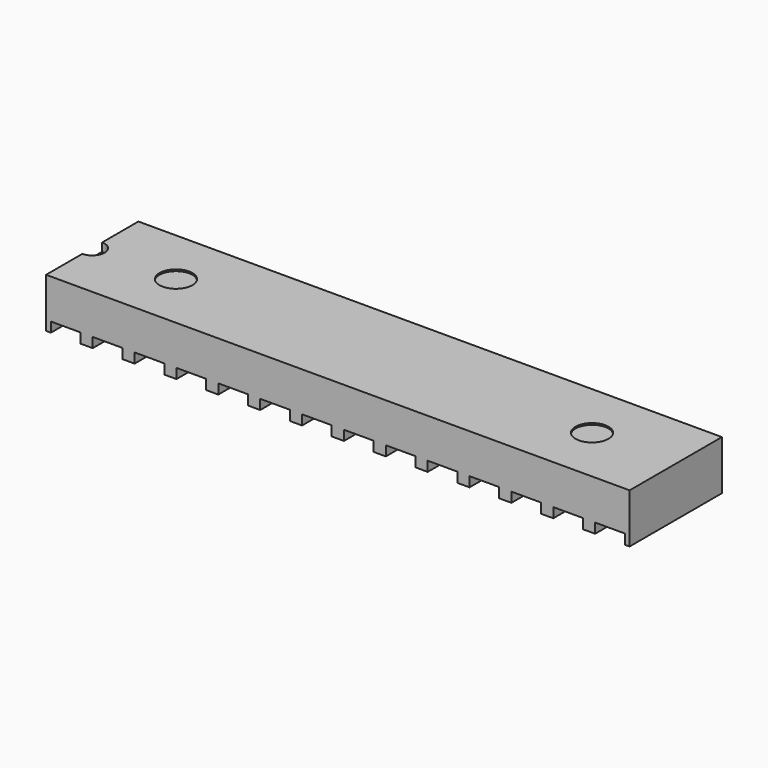
from build123d import *

# Parameters (mm, degrees)
F0_W     = 35.4
F0_H     = 7
F1_DEPTH = 3
F2_W     = 1.8
F2_H     = 1
F3_DEPTH = 0.6
F4_R     = 1
F5_DEPTH = 0.1
F7_DEPTH = 0.5


with BuildPart() as f1:
    # F0 (on Top) → F1 (new body)
    with BuildSketch(Plane.XY):
        with Locations((17.7, 3.5)):
            Rectangle(F0_W, F0_H)
    extrude(amount=F1_DEPTH)

    # F2 (on face) → F3 (cut)
    with BuildSketch(Plane(origin=(0, 0, 0), x_dir=(1, 0, 0), z_dir=(0, 0, -1))):
        with Locations((1.19, -0.5)):
            Rectangle(F2_W, F2_H)
        with Locations((3.73, -0.5)):
            Rectangle(F2_W, F2_H)
        with Locations((6.27, -0.5)):
            Rectangle(F2_W, F2_H)
        with Locations((8.81, -0.5)):
            Rectangle(F2_W, F2_H)
        with Locations((11.35, -0.5)):
            Rectangle(F2_W, F2_H)
        with Locations((13.89, -0.5)):
            Rectangle(F2_W, F2_H)
        with Locations((16.43, -0.5)):
            Rectangle(F2_W, F2_H)
        with Locations((18.97, -0.5)):
            Rectangle(F2_W, F2_H)
        with Locations((21.51, -0.5)):
            Rectangle(F2_W, F2_H)
        with Locations((24.05, -0.5)):
            Rectangle(F2_W, F2_H)
        with Locations((26.59, -0.5)):
            Rectangle(F2_W, F2_H)
        with Locations((29.13, -0.5)):
            Rectangle(F2_W, F2_H)
        with Locations((31.67, -0.5)):
            Rectangle(F2_W, F2_H)
        with Locations((34.21, -0.5)):
            Rectangle(F2_W, F2_H)
        with Locations((34.21, -6.5)):
            Rectangle(F2_W, F2_H)
        with Locations((31.67, -6.5)):
            Rectangle(F2_W, F2_H)
        with Locations((29.13, -6.5)):
            Rectangle(F2_W, F2_H)
        with Locations((26.59, -6.5)):
            Rectangle(F2_W, F2_H)
        with Locations((24.05, -6.5)):
            Rectangle(F2_W, F2_H)
        with Locations((21.51, -6.5)):
            Rectangle(F2_W, F2_H)
        with Locations((18.97, -6.5)):
            Rectangle(F2_W, F2_H)
        with Locations((16.43, -6.5)):
            Rectangle(F2_W, F2_H)
        with Locations((13.89, -6.5)):
            Rectangle(F2_W, F2_H)
        with Locations((11.35, -6.5)):
            Rectangle(F2_W, F2_H)
        with Locations((8.81, -6.5)):
            Rectangle(F2_W, F2_H)
        with Locations((6.27, -6.5)):
            Rectangle(F2_W, F2_H)
        with Locations((3.73, -6.5)):
            Rectangle(F2_W, F2_H)
        with Locations((1.19, -6.5)):
            Rectangle(F2_W, F2_H)
    extrude(amount=-F3_DEPTH, mode=Mode.SUBTRACT)

    # F4 (on face) → F5 (cut)
    with BuildSketch(Plane.XY.offset(3)):
        with Locations((5.08, 3.5)):
            Circle(F4_R)
        with Locations((30.32, 3.5)):
            Circle(F4_R)
    extrude(amount=-F5_DEPTH, mode=Mode.SUBTRACT)

    # F6 (on face) → F7 (cut)
    with BuildSketch(Plane.XY.offset(3)):
        with BuildLine():
            Line((0, 4.25), (0, 2.75))
            ThreePointArc((0, 2.75), (0.75, 3.5), (0, 4.25))
        make_face()
    extrude(amount=-F7_DEPTH, mode=Mode.SUBTRACT)


solid = f1.part
